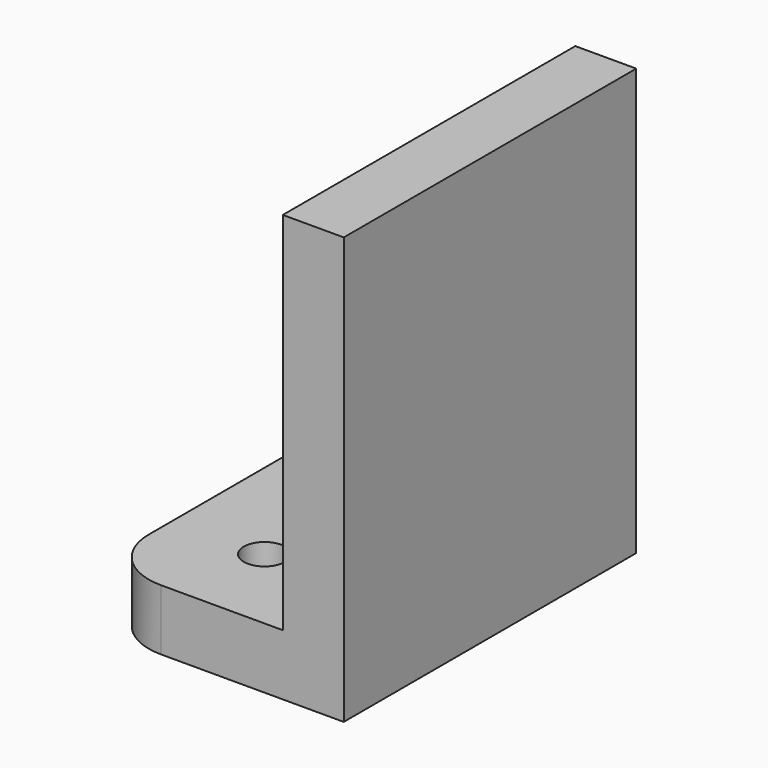
from build123d import *

# Parameters (mm, degrees)
PAD_DEPTH    = 5
SKETCH001_R  = 1.7
HOLE_DEPTH   = 72.8243
SKETCH002_W  = 30
SKETCH002_H  = 5
PAD001_DEPTH = 5
SKETCH003_W  = 5
SKETCH003_H  = 30
PAD002_DEPTH = 30


with BuildPart() as part:
    # Sketch → Pad (new body)
    with BuildSketch(Plane.XY):
        with BuildLine():
            Line((-15, 0), (0, 0))
            Line((0, 0), (0, 15))
            Line((0, 15), (-10, 15))
            ThreePointArc((-10, 15), (-13.535534, 13.535534), (-15, 10))
            Line((-15, 10), (-15, 0))
        make_face()
    pad = extrude(amount=PAD_DEPTH)

    # Mirrored: Pad across XZ
    add(pad.mirror(Plane.XZ))

    # Sketch001 (on Face5 of Mirrored) → Hole (cut, through all)
    with BuildSketch(Plane.XY.offset(5)):
        with Locations((-7.5, 7.5)):
            Circle(SKETCH001_R)
    hole = extrude(amount=-HOLE_DEPTH, mode=Mode.SUBTRACT)

    # Mirrored001: Hole across XZ
    add(hole.mirror(Plane.XZ), mode=Mode.SUBTRACT)

    # Sketch002 (on Face2 of Mirrored001) → Pad001 (join)
    with BuildSketch(Plane.YZ):
        with Locations((0, 2.5)):
            Rectangle(SKETCH002_W, SKETCH002_H)
    extrude(amount=PAD001_DEPTH)

    # Sketch003 (on Face12 of Pad001) → Pad002 (join)
    with BuildSketch(Plane.XY.offset(5)):
        with Locations((2.5, 0)):
            Rectangle(SKETCH003_W, SKETCH003_H)
    extrude(amount=PAD002_DEPTH)


solid = part.part
